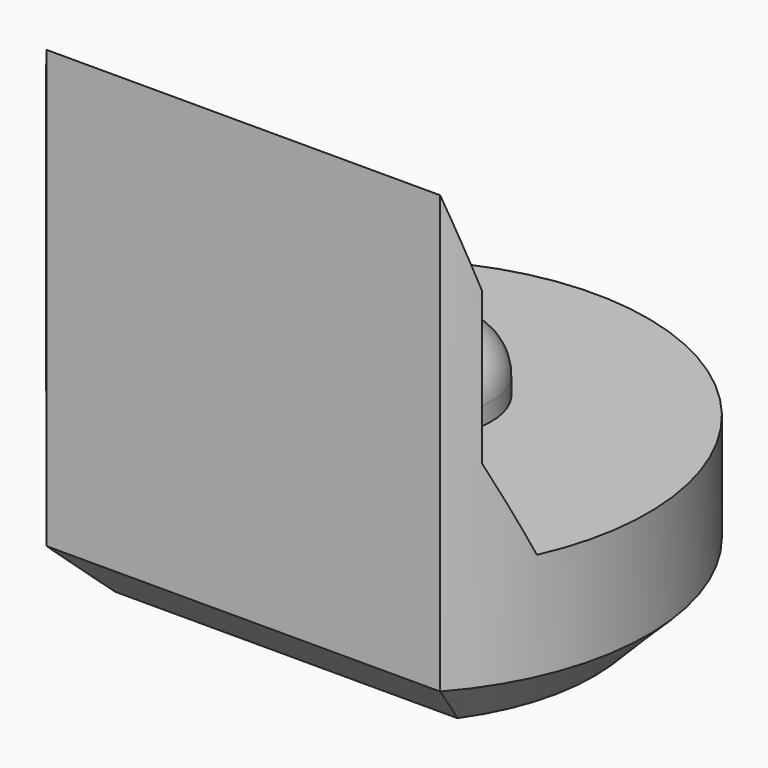
from build123d import *

# Parameters (mm, degrees)
PAD003_DEPTH         = 5.5
POCKET004_DEPTH      = 2.951
POCKET004_DEPTH_BACK = 2.951
SKETCH013_R          = 0.8
PAD006_DEPTH         = 0.7
FILLET_R             = 0.5
CHAMFER004_SIZE      = 0.6


with BuildPart() as part:
    # Sketch004 → Pad003 (new body)
    with BuildSketch(Plane.XY):
        with BuildLine():
            ThreePointArc((2.2, -1.9653244007), (0, 2.95), (-2.2, -1.9653244007))
            Line((-2.2, -1.9653244007), (2.2, -1.9653244007))
        make_face()
    extrude(amount=PAD003_DEPTH)

    # Sketch014 → Pocket004 (cut, two sides)
    with BuildSketch(Plane.YZ) as pocket004_sk:
        Polygon((-1.97, 5.5), (-1.67, 4.5), (-1.67, 2.8), (-1.22, 1.8), (4, 1.8), (4, 5.5), align=None)
    extrude(amount=-POCKET004_DEPTH, mode=Mode.SUBTRACT)
    extrude(pocket004_sk.sketch, amount=POCKET004_DEPTH_BACK, mode=Mode.SUBTRACT)

    # Sketch013 (on Face7 of Pocket004) → Pad006 (join)
    with BuildSketch(Plane.XY.offset(1.8)):
        with Locations((0, 0.5)):
            Circle(SKETCH013_R)
    extrude(amount=PAD006_DEPTH)

    # Fillet
    fillet_edges = [part.edges().sort_by_distance(p)[0] for p in [
        (-0.8, 0.5, 2.5),
    ]]
    fillet(fillet_edges, radius=FILLET_R)

    # Chamfer004
    chamfer004_edges = [part.edges().sort_by_distance(p)[0] for p in [
        (0, 2.95, 0),
        (0, -1.965324, 0),
    ]]
    chamfer(chamfer004_edges, length=CHAMFER004_SIZE)


with BuildPart() as part_1:
    # Body025 placement: moved
    add(part.part.moved(Location((0, 36, 0))))


solid = part_1.part
